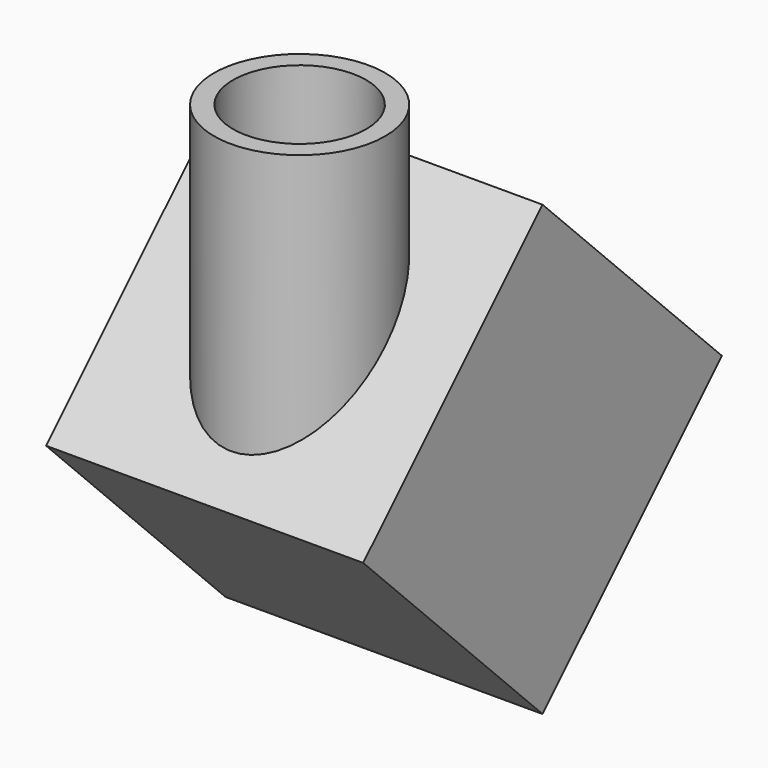
from build123d import *

# Parameters (mm, degrees)
CYLINDER001_R     = 10.668
CYLINDER001_DEPTH = 50.8
CYLINDER_R        = 13.716
CYLINDER_DEPTH    = 50.8
BOX_W             = 50.8
BOX_H             = 50.8
BOX_DEPTH         = 50.8
BOX_ROLL_ANGLE    = 45


with BuildPart() as outside:
    # Cylinder001 → Cylinder001 (new body)
    with BuildSketch(Plane.XY):
        Circle(CYLINDER001_R)
    extrude(amount=CYLINDER001_DEPTH)


with BuildPart() as cut:
    # Cylinder → Cylinder (new body)
    with BuildSketch(Plane.XY):
        Circle(CYLINDER_R)
    extrude(amount=CYLINDER_DEPTH)

    # Cut: cut outside
    add(outside.part, mode=Mode.SUBTRACT)


with BuildPart() as cube:
    # Box → Box (new body)
    with BuildSketch(Plane.XY):
        with Locations((25.4, 25.4)):
            Rectangle(BOX_W, BOX_H)
    extrude(amount=BOX_DEPTH)


with BuildPart() as cube_1:
    # Box roll: moved
    add(cube.part.rotate(Axis((0, 0, 0), (1, 0, 0)), BOX_ROLL_ANGLE))


with BuildPart() as cube_2:
    # Box placement: moved
    add(cube_1.part.moved(Location((-25.4, 16.894739, -33.765763))))


solid = Compound([cut.part, cube_2.part])
